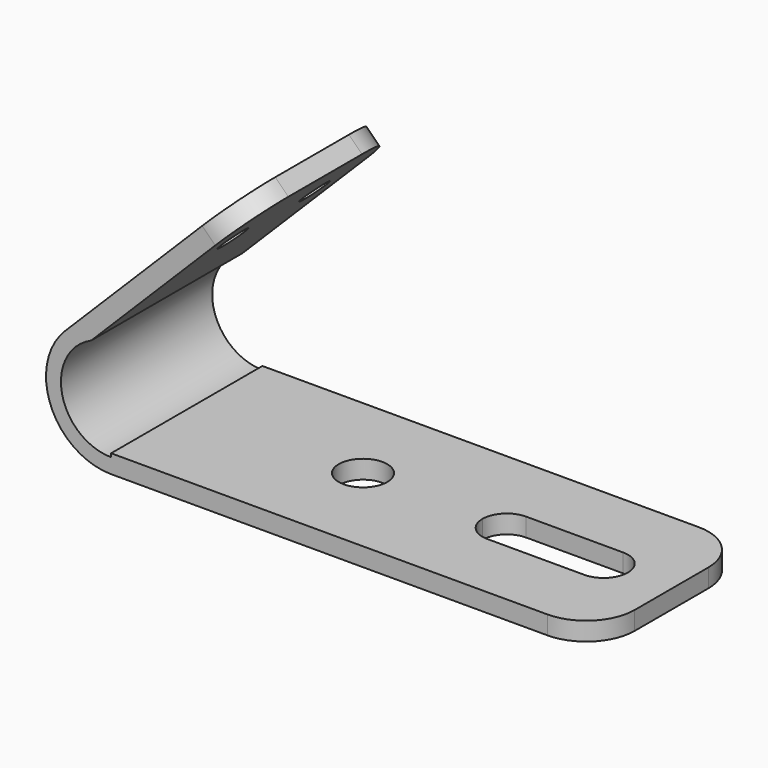
from build123d import *

# Parameters (mm, degrees)
F1_DEPTH  = 495.3
F3_DEPTH  = 101.6
F4_R      = 63.5
F5_DEPTH  = 101.6
F7_DEPTH  = 127
F9_DEPTH  = 127
F11_DEPTH = 127
F13_DEPTH = 127


with BuildPart() as f1:
    # F0 (on Front) → F1 (new body)
    with BuildSketch(Plane.XZ):
        Polygon((635, -24.13), (635, 24.13), (-635, 24.13), (-635, 14.952256), (-635, -24.13), align=None)
        with BuildLine():
            Line((-635, -24.13), (-635, 14.952256))
            ThreePointArc((-635, 14.952256), (-763.72663, 119.691568), (-687.35112, 267.026731))
            Line((-687.35112, 267.026731), (-272.463288, 681.914564))
            Line((-272.463288, 681.914564), (-306.588261, 716.039537))
            Line((-306.588261, 716.039537), (-755.601067, 267.026731))
            ThreePointArc((-755.601067, 267.026731), (-792.572888, 81.156837), (-635, -24.13))
        make_face()
    extrude(amount=F1_DEPTH)

    # F2 (on face) → F3 (cut)
    with BuildSketch(Plane(origin=(-511.313899, 0, 511.313899), x_dir=(0, -1, 0), z_dir=(-0.707107, 0, 0.707107))):
        with BuildLine():
            ThreePointArc((152.4, 99.025774), (141.240768, 125.966543), (114.3, 137.125774))
            ThreePointArc((114.3, 137.125774), (87.359232, 72.085006), (152.4, 99.025774))
        make_face()
        with BuildLine():
            ThreePointArc((419.1, 99.025774), (407.940768, 125.966543), (381, 137.125774))
            ThreePointArc((381, 137.125774), (354.059232, 72.085006), (419.1, 99.025774))
        make_face()
    extrude(amount=-F3_DEPTH, mode=Mode.SUBTRACT)

    # F4 (on face) → F5 (cut)
    with BuildSketch(Plane.XY.offset(24.13)):
        with Locations((-177.8, -241.935)):
            Circle(F4_R)
        with BuildLine():
            Line((139.7, -247.65), (520.7, -247.65))
            ThreePointArc((520.7, -247.65), (502.101281, -202.748719), (457.2, -184.15))
            Line((457.2, -184.15), (203.2, -184.15))
            ThreePointArc((203.2, -184.15), (158.298719, -202.748719), (139.7, -247.65))
        make_face()
        with BuildLine():
            ThreePointArc((457.2, -311.15), (502.101281, -292.551281), (520.7, -247.65))
            Line((520.7, -247.65), (139.7, -247.65))
            ThreePointArc((139.7, -247.65), (158.298719, -292.551281), (203.2, -311.15))
            Line((203.2, -311.15), (457.2, -311.15))
        make_face()
    extrude(amount=-F5_DEPTH, mode=Mode.SUBTRACT)

    # F6 (on face) → F7 (cut)
    with BuildSketch(Plane(origin=(-511.313899, 0, 511.313899), x_dir=(0, -1, 0), z_dir=(-0.707107, 0, 0.707107))):
        with BuildLine():
            Line((127, 289.525774), (0, 289.525774))
            Line((0, 289.525774), (0, 162.525774))
            ThreePointArc((0, 162.525774), (37.197439, 252.328335), (127, 289.525774))
        make_face()
    extrude(amount=-F7_DEPTH, mode=Mode.SUBTRACT)

    # F8 (on face) → F9 (cut)
    with BuildSketch(Plane(origin=(-511.313899, 0, 511.313899), x_dir=(0, -1, 0), z_dir=(-0.707107, 0, 0.707107))):
        with BuildLine():
            Line((495.3, 162.525774), (495.3, 289.525774))
            Line((495.3, 289.525774), (368.3, 289.525774))
            ThreePointArc((368.3, 289.525774), (458.102561, 252.328335), (495.3, 162.525774))
        make_face()
    extrude(amount=-F9_DEPTH, mode=Mode.SUBTRACT)

    # F10 (on face) → F11 (cut)
    with BuildSketch(Plane(origin=(0, 0, -24.13), x_dir=(1, 0, 0), z_dir=(0, 0, -1))):
        with BuildLine():
            Line((635, 368.3), (635, 495.3))
            Line((635, 495.3), (508, 495.3))
            ThreePointArc((508, 495.3), (597.802561, 458.102561), (635, 368.3))
        make_face()
    extrude(amount=-F11_DEPTH, mode=Mode.SUBTRACT)

    # F12 (on face) → F13 (cut)
    with BuildSketch(Plane(origin=(0, 0, -24.13), x_dir=(1, 0, 0), z_dir=(0, 0, -1))):
        with BuildLine():
            Line((508, 0), (635, 0))
            Line((635, 0), (635, 127))
            ThreePointArc((635, 127), (597.802561, 37.197439), (508, 0))
        make_face()
    extrude(amount=-F13_DEPTH, mode=Mode.SUBTRACT)


solid = f1.part
